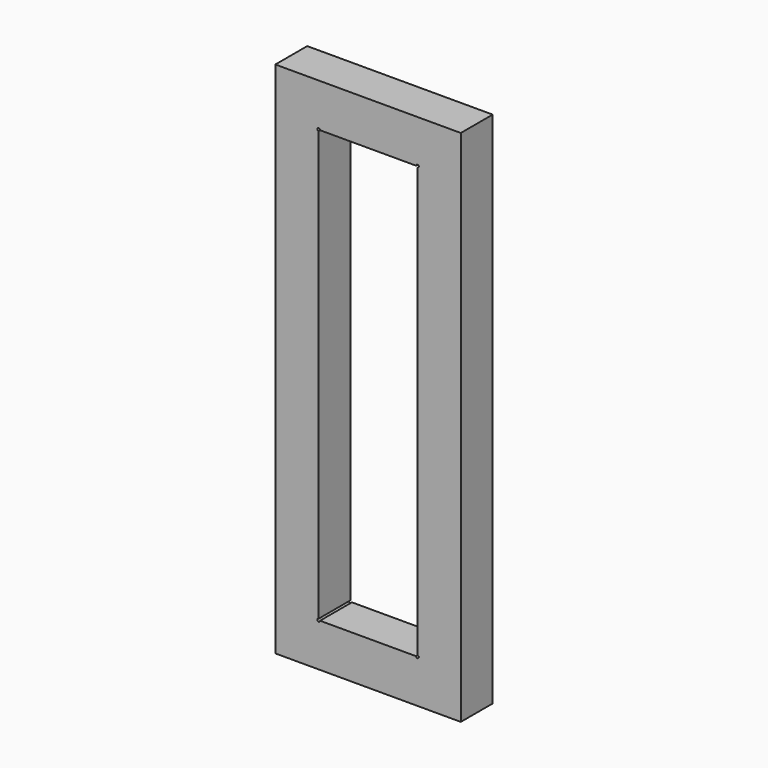
from build123d import *

# Parameters (mm, degrees)
F0_W     = 27.1828
F0_H     = 76
F0_W_2   = 14.4828
F0_H_2   = 63.3
F1_DEPTH = 5.842
F2_R     = 0.198438
F3_DEPTH = 5.843


with BuildPart() as f1:
    # F0 (on Front) → F1 (new body)
    with BuildSketch(Plane.XZ):
        Rectangle(F0_W, F0_H)
        Rectangle(F0_W_2, F0_H_2, mode=Mode.SUBTRACT)
    extrude(amount=F1_DEPTH)

    # F2 (on face) → F3 (cut, through all)
    with BuildSketch(Plane.XZ.offset(5.842)):
        with Locations((-7.2414, 31.65)):
            Circle(F2_R)
        with Locations((7.2414, 31.65)):
            Circle(F2_R)
        with Locations((-7.2414, -31.65)):
            Circle(F2_R)
        with Locations((7.2414, -31.65)):
            Circle(F2_R)
    extrude(amount=-F3_DEPTH, mode=Mode.SUBTRACT)


solid = f1.part
